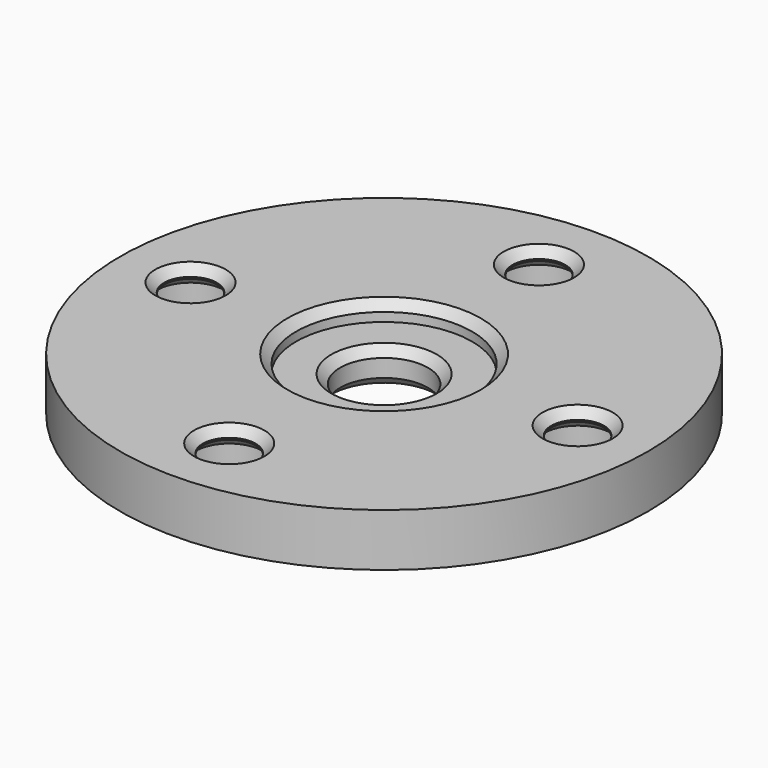
from build123d import *

# Parameters (mm, degrees)
SKETCH_R        = 15
SKETCH_R_2      = 1.5
PAD_DEPTH       = 3
SKETCH002_R     = 2.5
POCKET_DEPTH    = 9
SKETCH001_R     = 5
POCKET001_DEPTH = 1
SKETCH003_R     = 2.5
POCKET002_DEPTH = 2
CHAMFER_SIZE    = 0.5
CHAMFER001_SIZE = 0.4


with BuildPart() as part:
    # Sketch → Pad (new body)
    with BuildSketch(Plane.XY):
        Circle(SKETCH_R)
        with Locations((0, 11)):
            Circle(SKETCH_R_2, mode=Mode.SUBTRACT)
        with Locations((-11, 0)):
            Circle(SKETCH_R_2, mode=Mode.SUBTRACT)
        with Locations((0, -11)):
            Circle(SKETCH_R_2, mode=Mode.SUBTRACT)
        with Locations((11, 0)):
            Circle(SKETCH_R_2, mode=Mode.SUBTRACT)
    extrude(amount=PAD_DEPTH)

    # Sketch002 (on Face7 of Pad) → Pocket (cut)
    with BuildSketch(Plane.XY.offset(3)):
        Circle(SKETCH002_R)
    extrude(amount=-POCKET_DEPTH, mode=Mode.SUBTRACT)

    # Sketch001 (on Face7 of Pad) → Pocket001 (cut)
    with BuildSketch(Plane.XY.offset(3)):
        Circle(SKETCH001_R)
    extrude(amount=-POCKET001_DEPTH, mode=Mode.SUBTRACT)

    # Sketch003 (on Face2 of Pocket001) → Pocket002 (cut)
    with BuildSketch(Plane(origin=(0, 0, 0), x_dir=(1, 0, 0), z_dir=(0, 0, -1))):
        with Locations((0, 11)):
            Circle(SKETCH003_R)
        with Locations((11, 0)):
            Circle(SKETCH003_R)
        with Locations((0, -11)):
            Circle(SKETCH003_R)
        with Locations((-11, 0)):
            Circle(SKETCH003_R)
    extrude(amount=-POCKET002_DEPTH, mode=Mode.SUBTRACT)

    # Chamfer
    chamfer_edges = [part.edges().sort_by_distance(p)[0] for p in [
        (-1.5, 11, 3),
        (9.5, 0, 3),
        (-1.5, -11, 3),
        (-12.5, 0, 3),
        (-5, 0, 3),
        (-2.5, 0, 2),
        (-2.5, -11, 0),
        (8.5, 0, 0),
        (-2.5, 11, 0),
        (-13.5, 0, 0),
        (-2.5, 0, 0),
    ]]
    chamfer(chamfer_edges, length=CHAMFER_SIZE)

    # Chamfer001
    chamfer001_edges = [part.edges().sort_by_distance(p)[0] for p in [
        (-1.5, -11, 2),
        (9.5, 0, 2),
        (-1.5, 11, 2),
        (-12.5, 0, 2),
    ]]
    chamfer(chamfer001_edges, length=CHAMFER001_SIZE)


solid = part.part
